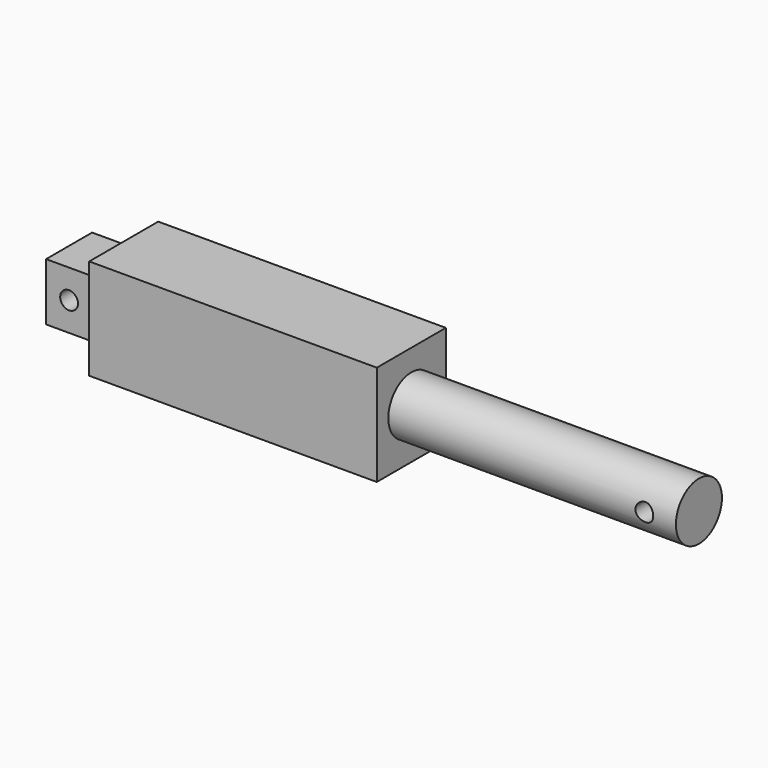
from build123d import *

# Parameters (mm, degrees)
F0_W     = 19
F0_H     = 20
F0_R     = 3.1
F1_DEPTH = 10
F2_DEPTH = 15
F4_R     = 10
F5_DEPTH = 100
F7_R     = 3.1
F8_DEPTH = 10


with BuildPart() as f1:
    # F0 (on Front) → F1 (new body, symmetric)
    with BuildSketch(Plane.XZ):
        with Locations((-58.5, 0)):
            Rectangle(F0_W, F0_H)
        with Locations((-60, 0)):
            Circle(F0_R, mode=Mode.SUBTRACT)
    extrude(amount=F1_DEPTH, both=True)

    # F0 (on Front) → F2 (join, symmetric)
    with BuildSketch(Plane.XZ):
        Polygon((-49, 17.5), (-49, 10), (-49, -10), (-49, -17.5), (51, -17.5), (51, 17.5), align=None)
    extrude(amount=F2_DEPTH, both=True)


with BuildPart() as f5:
    # F4 (on offset) → F5 (new body)
    with BuildSketch(Plane.YZ.offset(51)):
        Circle(F4_R)
    extrude(amount=F5_DEPTH)

    # F7 (on face) → F8 (cut, symmetric)
    with BuildSketch(Plane.XZ):
        with Locations((140, 0)):
            Circle(F7_R)
    extrude(amount=F8_DEPTH, both=True, mode=Mode.SUBTRACT)


solid = Compound([f1.part, f5.part])
